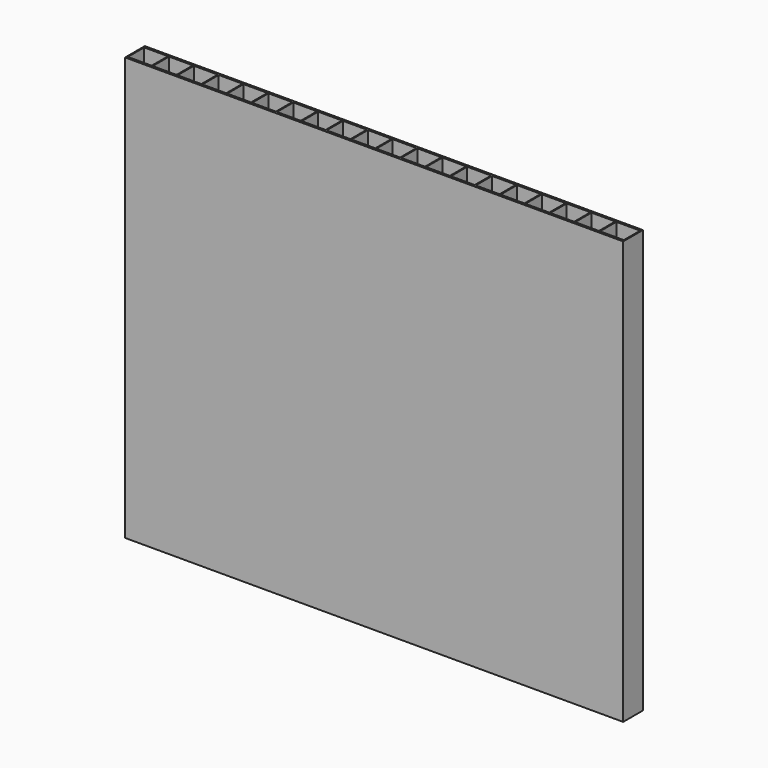
from build123d import *

# Parameters (mm, degrees)
F0_W        = 119.634
F0_H        = 5.9182
F0_W_2      = 5.715
F0_H_2      = 4.9022
F1_DEPTH    = 76.2
F1_FACE_W   = 119.634
F1_FACE_H   = 5.9182
F1_FACE_W_2 = 5.715
F1_FACE_H_2 = 4.9022
F2_DEPTH    = 25.4


with BuildPart() as f1:
    # F0 (on Top) → F1 (new body)
    with BuildSketch(Plane.XY):
        with Locations((59.817, 2.9591)):
            Rectangle(F0_W, F0_H)
        with Locations((3.1115, 2.9591)):
            Rectangle(F0_W_2, F0_H_2, mode=Mode.SUBTRACT)
        with Locations((9.0805, 2.9591)):
            Rectangle(F0_W_2, F0_H_2, mode=Mode.SUBTRACT)
        with Locations((15.0495, 2.9591)):
            Rectangle(F0_W_2, F0_H_2, mode=Mode.SUBTRACT)
        with Locations((21.0185, 2.9591)):
            Rectangle(F0_W_2, F0_H_2, mode=Mode.SUBTRACT)
        with Locations((26.9875, 2.9591)):
            Rectangle(F0_W_2, F0_H_2, mode=Mode.SUBTRACT)
        with Locations((32.9565, 2.9591)):
            Rectangle(F0_W_2, F0_H_2, mode=Mode.SUBTRACT)
        with Locations((38.9255, 2.9591)):
            Rectangle(F0_W_2, F0_H_2, mode=Mode.SUBTRACT)
        with Locations((44.8945, 2.9591)):
            Rectangle(F0_W_2, F0_H_2, mode=Mode.SUBTRACT)
        with Locations((50.8635, 2.9591)):
            Rectangle(F0_W_2, F0_H_2, mode=Mode.SUBTRACT)
        with Locations((56.8325, 2.9591)):
            Rectangle(F0_W_2, F0_H_2, mode=Mode.SUBTRACT)
        with Locations((62.8015, 2.9591)):
            Rectangle(F0_W_2, F0_H_2, mode=Mode.SUBTRACT)
        with Locations((68.7705, 2.9591)):
            Rectangle(F0_W_2, F0_H_2, mode=Mode.SUBTRACT)
        with Locations((74.7395, 2.9591)):
            Rectangle(F0_W_2, F0_H_2, mode=Mode.SUBTRACT)
        with Locations((80.7085, 2.9591)):
            Rectangle(F0_W_2, F0_H_2, mode=Mode.SUBTRACT)
        with Locations((86.6775, 2.9591)):
            Rectangle(F0_W_2, F0_H_2, mode=Mode.SUBTRACT)
        with Locations((92.6465, 2.9591)):
            Rectangle(F0_W_2, F0_H_2, mode=Mode.SUBTRACT)
        with Locations((98.6155, 2.9591)):
            Rectangle(F0_W_2, F0_H_2, mode=Mode.SUBTRACT)
        with Locations((104.5845, 2.9591)):
            Rectangle(F0_W_2, F0_H_2, mode=Mode.SUBTRACT)
        with Locations((110.5535, 2.9591)):
            Rectangle(F0_W_2, F0_H_2, mode=Mode.SUBTRACT)
        with Locations((116.5225, 2.9591)):
            Rectangle(F0_W_2, F0_H_2, mode=Mode.SUBTRACT)
    extrude(amount=F1_DEPTH)

    # F1_face (on face) → F2 (join)
    with BuildSketch(Plane(origin=(59.817, 2.9591, 0), x_dir=(1, 0, 0), z_dir=(0, 0, -1))):
        Rectangle(F1_FACE_W, F1_FACE_H)
        with Locations((-56.7055, 0)):
            Rectangle(F1_FACE_W_2, F1_FACE_H_2, mode=Mode.SUBTRACT)
        with Locations((-50.7365, 0)):
            Rectangle(F1_FACE_W_2, F1_FACE_H_2, mode=Mode.SUBTRACT)
        with Locations((-44.7675, 0)):
            Rectangle(F1_FACE_W_2, F1_FACE_H_2, mode=Mode.SUBTRACT)
        with Locations((-38.7985, 0)):
            Rectangle(F1_FACE_W_2, F1_FACE_H_2, mode=Mode.SUBTRACT)
        with Locations((-32.8295, 0)):
            Rectangle(F1_FACE_W_2, F1_FACE_H_2, mode=Mode.SUBTRACT)
        with Locations((-26.8605, 0)):
            Rectangle(F1_FACE_W_2, F1_FACE_H_2, mode=Mode.SUBTRACT)
        with Locations((-20.8915, 0)):
            Rectangle(F1_FACE_W_2, F1_FACE_H_2, mode=Mode.SUBTRACT)
        with Locations((-14.9225, 0)):
            Rectangle(F1_FACE_W_2, F1_FACE_H_2, mode=Mode.SUBTRACT)
        with Locations((-8.9535, 0)):
            Rectangle(F1_FACE_W_2, F1_FACE_H_2, mode=Mode.SUBTRACT)
        with Locations((-2.9845, 0)):
            Rectangle(F1_FACE_W_2, F1_FACE_H_2, mode=Mode.SUBTRACT)
        with Locations((2.9845, 0)):
            Rectangle(F1_FACE_W_2, F1_FACE_H_2, mode=Mode.SUBTRACT)
        with Locations((8.9535, 0)):
            Rectangle(F1_FACE_W_2, F1_FACE_H_2, mode=Mode.SUBTRACT)
        with Locations((14.9225, 0)):
            Rectangle(F1_FACE_W_2, F1_FACE_H_2, mode=Mode.SUBTRACT)
        with Locations((20.8915, 0)):
            Rectangle(F1_FACE_W_2, F1_FACE_H_2, mode=Mode.SUBTRACT)
        with Locations((26.8605, 0)):
            Rectangle(F1_FACE_W_2, F1_FACE_H_2, mode=Mode.SUBTRACT)
        with Locations((32.8295, 0)):
            Rectangle(F1_FACE_W_2, F1_FACE_H_2, mode=Mode.SUBTRACT)
        with Locations((38.7985, 0)):
            Rectangle(F1_FACE_W_2, F1_FACE_H_2, mode=Mode.SUBTRACT)
        with Locations((44.7675, 0)):
            Rectangle(F1_FACE_W_2, F1_FACE_H_2, mode=Mode.SUBTRACT)
        with Locations((50.7365, 0)):
            Rectangle(F1_FACE_W_2, F1_FACE_H_2, mode=Mode.SUBTRACT)
        with Locations((56.7055, 0)):
            Rectangle(F1_FACE_W_2, F1_FACE_H_2, mode=Mode.SUBTRACT)
    extrude(amount=F2_DEPTH)


solid = f1.part
